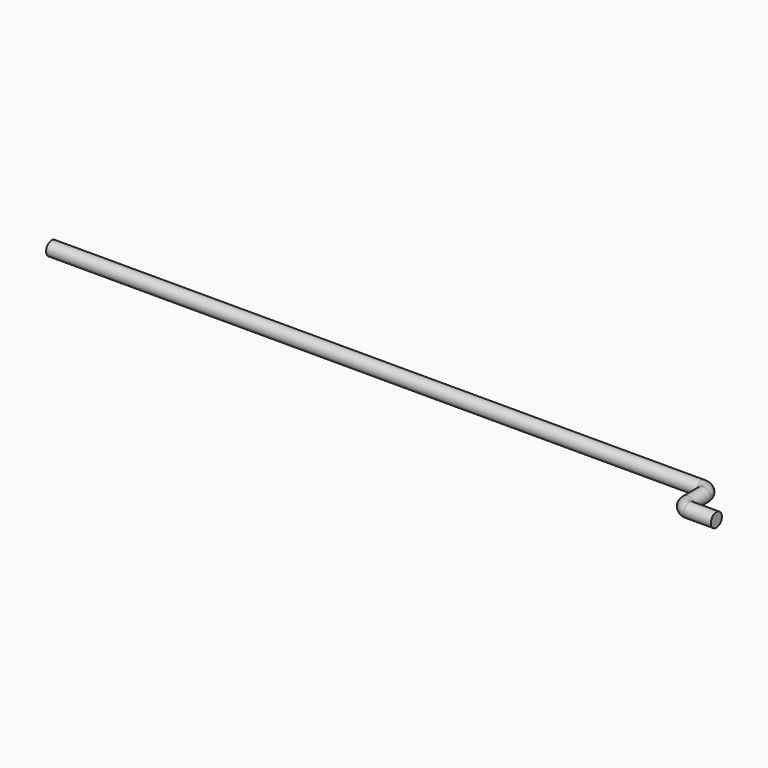
from build123d import *

# Parameters (mm, degrees)
F1_R = 1


with BuildPart() as f2:
    # F2: sweep along a path in F0
    with BuildLine(Plane.XY) as f2_path:
        Line((0, 0), (93.9, 0))
        ThreePointArc((93.9, 0), (94.6778174593, -0.3221825407), (95, -1.1))
        Line((95, -1.1), (95, -3.9))
        ThreePointArc((95, -3.9), (95.3221825407, -4.6778174593), (96.1, -5))
        Line((96.1, -5), (100, -5))
    # F1 (on Right) → F2 (sweep)
    with BuildSketch(Plane.YZ):
        Circle(F1_R)
    sweep(path=f2_path.line)


solid = f2.part
